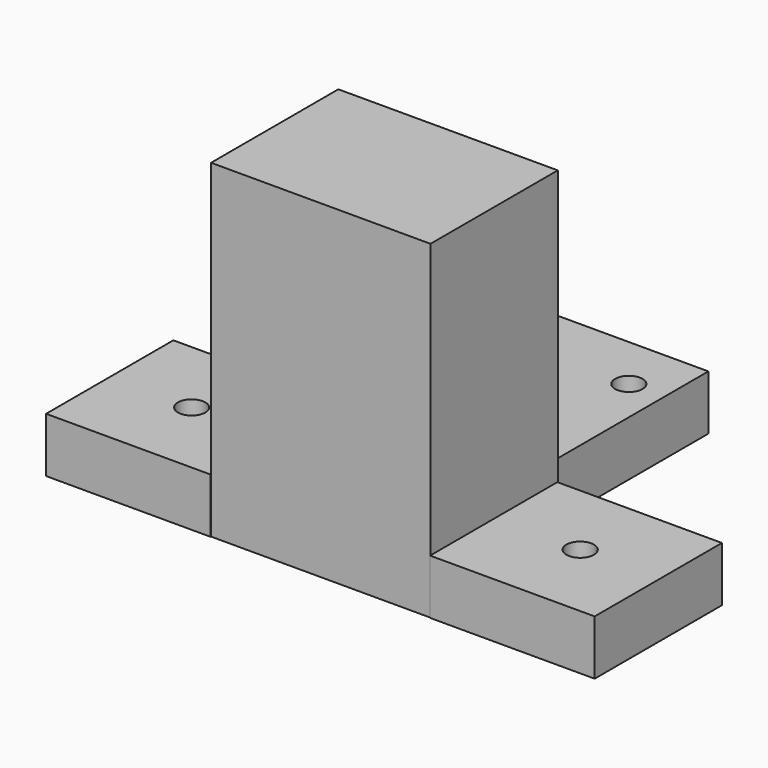
from build123d import *

# Parameters (mm, degrees)
F1_DEPTH = 76.2
F0_R     = 3.17989
F2_DEPTH = 12.7
F0_R_2   = 3.190914
F3_DEPTH = 12.7
F0_W     = 38.1
F0_H     = 50.8
F4_DEPTH = 12.7


with BuildPart() as f1:
    # F0 (on Top) → F1 (new body)
    with BuildSketch(Plane.XY):
        Polygon((-63.963963, 7.02602), (-70.885196, 7.02602), (-70.885196, 6.905661), (-70.885196, -29.80398), (-20.085196, -29.80398), (-20.085196, 6.905661), (-20.085196, 7.02602), (-25.863963, 7.02602), align=None)
    extrude(amount=F1_DEPTH)

    # F0 (on Top) → F2 (join)
    with BuildSketch(Plane.XY):
        Polygon((-70.885196, -29.80398), (-70.885196, 6.905661), (-108.985196, 6.905661), (-108.985196, -29.924339), (-70.885196, -29.924339), align=None)
        with Locations((-89.978054, -11.557001)):
            Circle(F0_R, mode=Mode.SUBTRACT)
    extrude(amount=F2_DEPTH)

    # F0 (on Top) → F3 (join)
    with BuildSketch(Plane.XY):
        Polygon((-20.085196, 6.905661), (-20.085196, -29.80398), (-20.085196, -29.924339), (18.014804, -29.924339), (18.014804, 6.905661), align=None)
        with Locations((-0.353005, -11.161889)):
            Circle(F0_R_2, mode=Mode.SUBTRACT)
    extrude(amount=F3_DEPTH)

    # F0 (on Top) → F4 (join)
    with BuildSketch(Plane.XY):
        with Locations((-44.913963, 32.42602)):
            Rectangle(F0_W, F0_H)
        with Locations((-55.91448, 45.011953)):
            Circle(F0_R, mode=Mode.SUBTRACT)
        with Locations((-44.610804, 32.42602)):
            Circle(F0_R, mode=Mode.SUBTRACT)
        with Locations((-34.018744, 45.011953)):
            Circle(F0_R, mode=Mode.SUBTRACT)
    extrude(amount=F4_DEPTH)


solid = f1.part
